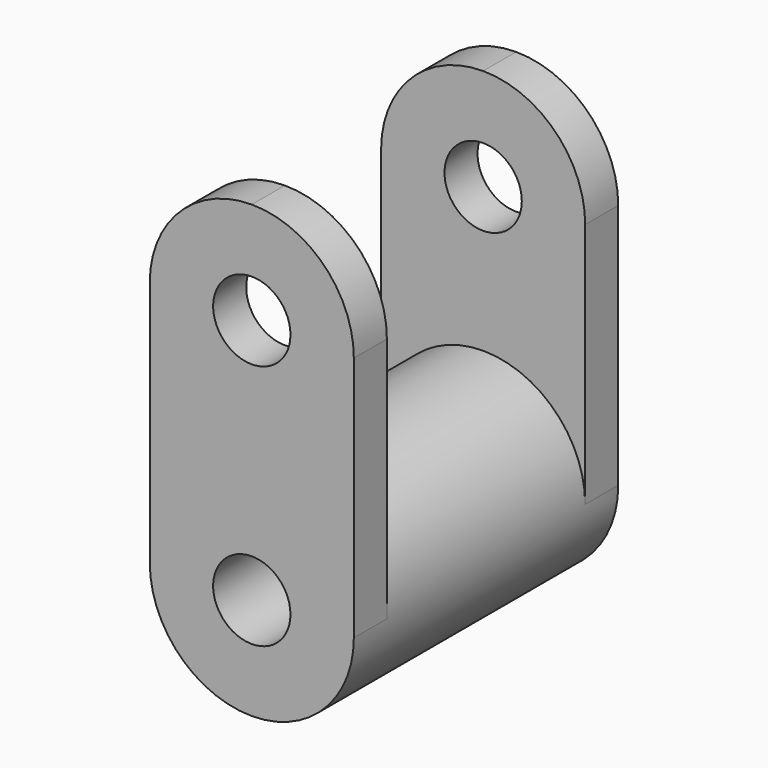
from build123d import *

# Parameters (mm, degrees)
F0_R          = 15.685168
F1_DEPTH      = 25.4
F1_DEPTH_BACK = 25.4
F3_DEPTH      = 6.35
F5_R          = 5.939538
F6_DEPTH      = 50.801


with BuildPart() as f1:
    # F0 (on Front) → F1 (new body, two sides)
    with BuildSketch(Plane.XZ) as f1_sk:
        Circle(F0_R)
    extrude(amount=F1_DEPTH)
    extrude(f1_sk.sketch, amount=-F1_DEPTH_BACK)

    # F2 (on face) → F3 (join)
    with BuildSketch(Plane.XZ.offset(25.4)):
        with BuildLine():
            Line((-15.685168, 37.850551), (-15.685168, 0))
            ThreePointArc((-15.685168, 0), (0, -15.685168), (15.685168, 0))
            Line((15.685168, 0), (15.685168, 37.850551))
            ThreePointArc((15.685168, 37.850551), (11.091089, 48.94164), (0, 53.53572))
            ThreePointArc((0, 53.53572), (-11.091089, 48.94164), (-15.685168, 37.850551))
        make_face()
    extrude(amount=-F3_DEPTH)

    # F4: F1 across plane


with BuildPart() as f1_1:
    add(f1.part)
    add(f1.part.mirror(Plane.XZ))

    # F5 (on face) → F6 (cut, through all)
    with BuildSketch(Plane.XZ.offset(25.4)):
        with Locations((0, 37.850551)):
            Circle(F5_R)
        Circle(F5_R)
    extrude(amount=-F6_DEPTH, mode=Mode.SUBTRACT)


solid = f1_1.part
